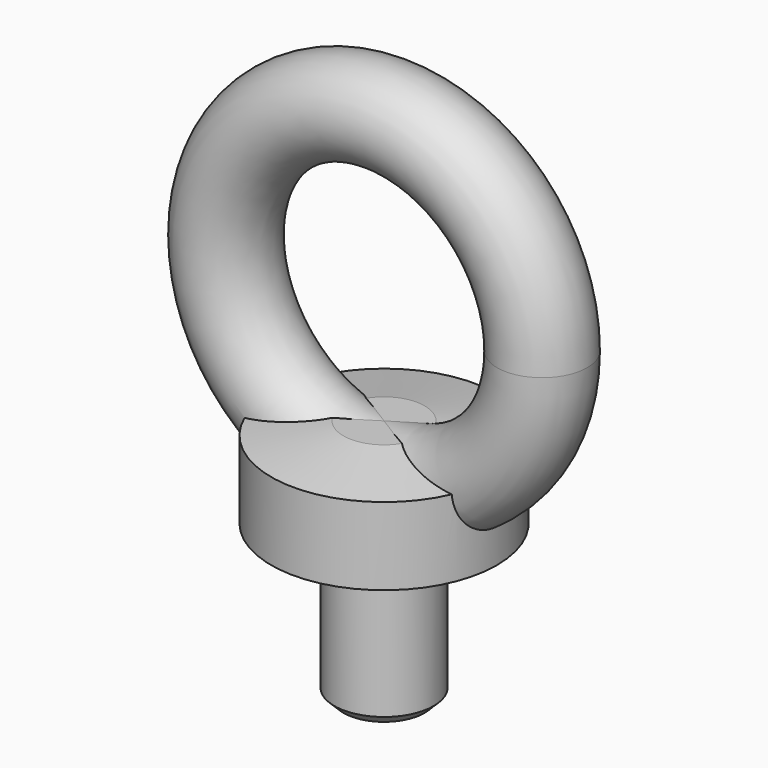
from build123d import *

# Parameters (mm, degrees)
F1_R     = 12.5
F3_DEPTH = 10
F4_SIZE2 = 1.4106158457
F4_SIZE  = 8
F2_R     = 5
F6_R     = 5.5
F7_DEPTH = 17
F8_SIZE  = 1


with BuildPart() as f3:
    # F1 (on offset) → F3 (new body)
    with BuildSketch(Plane.XY.offset(-22.5)):
        Circle(F1_R)
    extrude(amount=F3_DEPTH)

    # F4
    f4_edges = [f3.edges().sort_by_distance(p)[0] for p in [
        (-12.5, 0, -12.5),
    ]]
    f4_side = f3.faces().sort_by_distance((0, 0, -12.5))[0]
    chamfer(f4_edges, length=F4_SIZE, length2=F4_SIZE2, reference=f4_side)

    # F2 (on Top) → F5 (revolve)
    with BuildSketch(Plane.XY):
        with Locations((17.5, 0)):
            Circle(F2_R)
    revolve(axis=Axis((0, 2.5942958891, 0), (0, -1, 0)))

    # F6 (on face) → F7 (join)
    with BuildSketch(Plane(origin=(0, 0, -22.5), x_dir=(1, 0, 0), z_dir=(0, 0, -1))):
        Circle(F6_R)
    extrude(amount=F7_DEPTH)

    # F8
    f8_edges = [f3.edges().sort_by_distance(p)[0] for p in [
        (-5.5, 0, -39.5),
    ]]
    chamfer(f8_edges, length=F8_SIZE)


solid = f3.part
